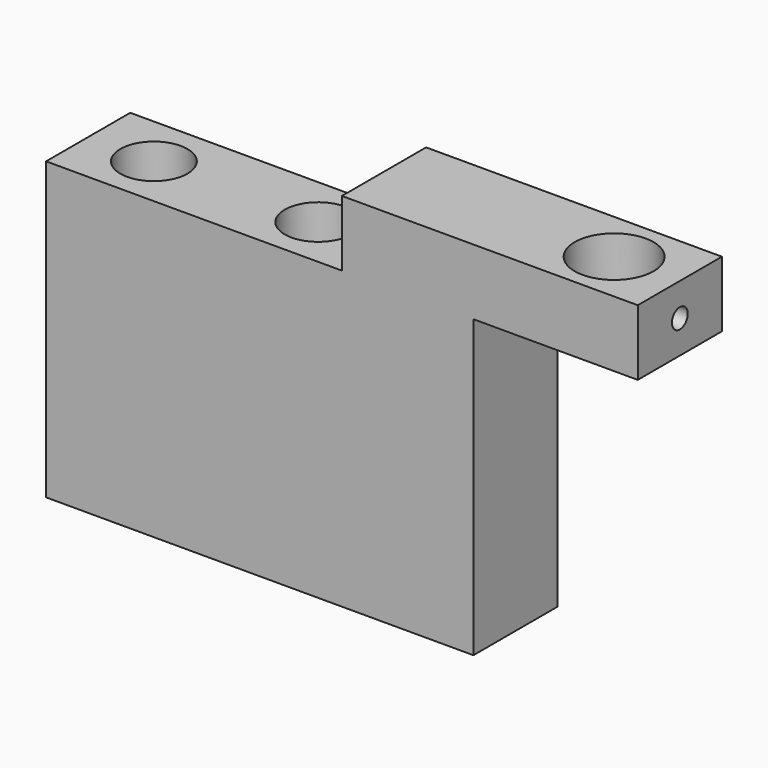
from build123d import *

# Parameters (mm, degrees)
F2_DEPTH  = 8
F3_R      = 3.05
F4_DEPTH  = 45
F5_R      = 5.1
F6_DEPTH  = 6.1
F7_R      = 6
F8_DEPTH  = 10
F9_R      = 1.5
F10_DEPTH = 4.1915250807


with BuildPart() as f2:
    # F1 (on offset) → F2 (new body, symmetric)
    with BuildSketch(Plane.XZ.offset(-50)):
        Polygon((0, 55), (0, 10), (65, 10), (65, 55), (90, 55), (90, 65), (45, 65), (45, 55), align=None)
    extrude(amount=F2_DEPTH, both=True)

    # F3 (on face) → F4 (cut, through all)
    with BuildSketch(Plane.XY.offset(55)):
        with Locations((10, 50)):
            Circle(F3_R)
        with Locations((35, 50)):
            Circle(F3_R)
    extrude(amount=-F4_DEPTH, mode=Mode.SUBTRACT)

    # F5 (on face) → F6 (cut)
    with BuildSketch(Plane.XY.offset(55)):
        with Locations((10, 50)):
            Circle(F5_R)
        with Locations((35, 50)):
            Circle(F5_R)
    extrude(amount=-F6_DEPTH, mode=Mode.SUBTRACT)

    # F7 (on face) → F8 (cut, through all)
    with BuildSketch(Plane.XY.offset(65)):
        with Locations((80, 50)):
            Circle(F7_R)
    extrude(amount=-F8_DEPTH, mode=Mode.SUBTRACT)

    # F9 (on face) → F10 (cut, through all)
    with BuildSketch(Plane.YZ.offset(90)):
        with Locations((50, 60)):
            Circle(F9_R)
    extrude(amount=-F10_DEPTH, mode=Mode.SUBTRACT)


solid = f2.part
